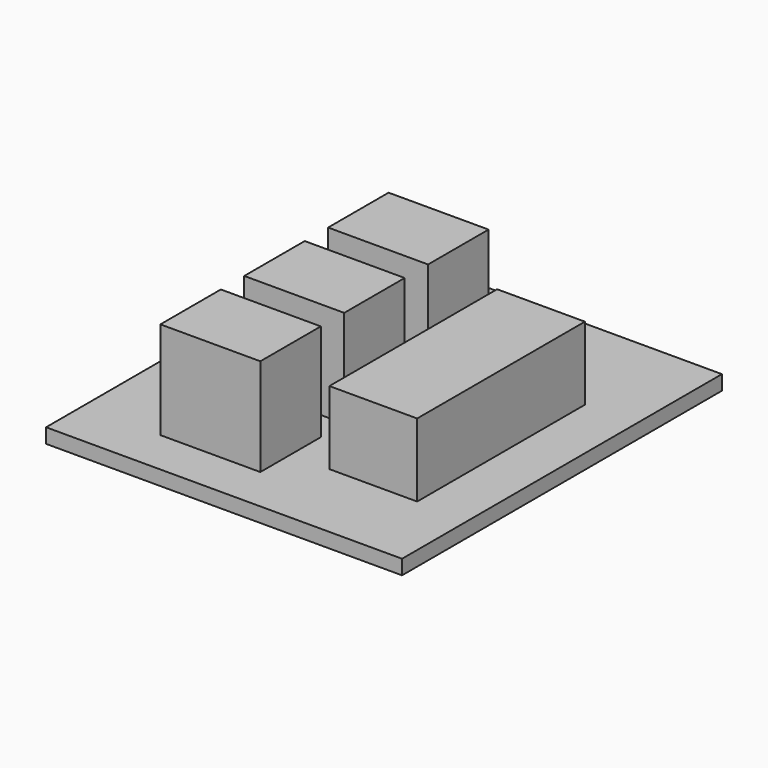
from build123d import *

# Parameters (mm, degrees)
F0_W     = 73
F0_H     = 82
F0_W_2   = 20.5
F0_H_2   = 15.5
F0_W_3   = 18
F0_H_3   = 43
F1_DEPTH = 3
F2_DEPTH = 20
F3_DEPTH = 15


with BuildPart() as f1:
    # F0 (on Top) → F1 (new body)
    with BuildSketch(Plane.XY):
        Rectangle(F0_W, F0_H)
        with Locations((-10.25, -23.95)):
            Rectangle(F0_W_2, F0_H_2, mode=Mode.SUBTRACT)
        with Locations((-10.25, -2.45)):
            Rectangle(F0_W_2, F0_H_2, mode=Mode.SUBTRACT)
        with Locations((17, -2.5)):
            Rectangle(F0_W_3, F0_H_3, mode=Mode.SUBTRACT)
        with Locations((-10.25, 19.05)):
            Rectangle(F0_W_2, F0_H_2, mode=Mode.SUBTRACT)
        with Locations((17, -2.5)):
            Rectangle(F0_W_3, F0_H_3)
        with Locations((-10.25, -2.45)):
            Rectangle(F0_W_2, F0_H_2)
        with Locations((-10.25, -23.95)):
            Rectangle(F0_W_2, F0_H_2)
        with Locations((-10.25, 19.05)):
            Rectangle(F0_W_2, F0_H_2)
    extrude(amount=-F1_DEPTH)

    # F0 (on Top) → F2 (join)
    with BuildSketch(Plane.XY):
        with Locations((-10.25, -23.95)):
            Rectangle(F0_W_2, F0_H_2)
        with Locations((-10.25, -2.45)):
            Rectangle(F0_W_2, F0_H_2)
        with Locations((-10.25, 19.05)):
            Rectangle(F0_W_2, F0_H_2)
    extrude(amount=F2_DEPTH)

    # F0 (on Top) → F3 (join)
    with BuildSketch(Plane.XY):
        with Locations((17, -2.5)):
            Rectangle(F0_W_3, F0_H_3)
    extrude(amount=F3_DEPTH)


solid = f1.part
